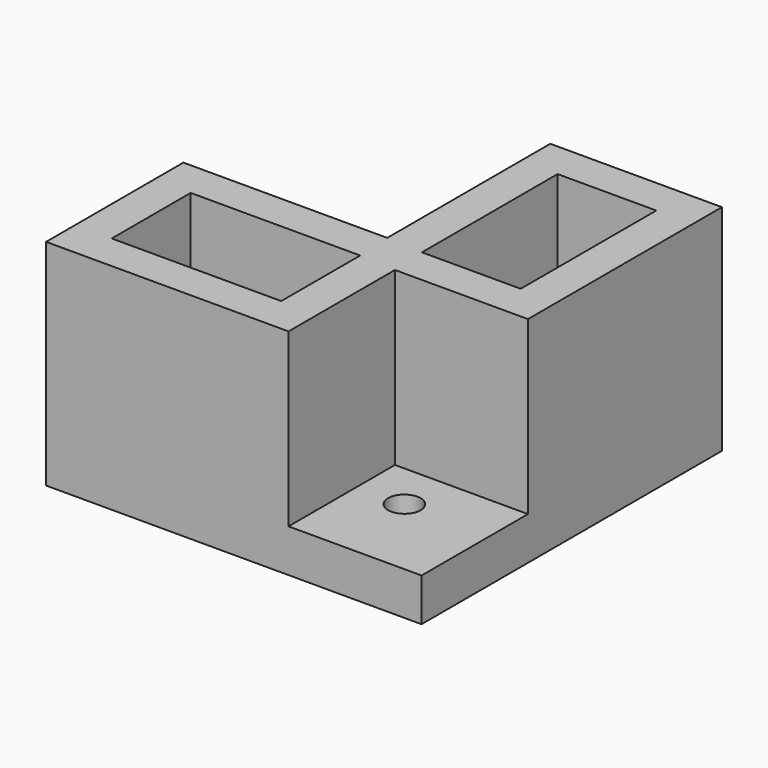
from build123d import *

# Parameters (mm, degrees)
PAD_DEPTH            = 25
SKETCH001_R          = 1.9
POCKET_DEPTH         = 25
SKETCH002_W          = 20
SKETCH002_H          = 20
POCKET001_DEPTH      = 20
SKETCH003_W          = 19.75
SKETCH003_H          = 11.5
SKETCH003_W_2        = 11.5
SKETCH003_H_2        = 19.75
POCKET002_DEPTH      = 20
BODY_PLACEMENT_ANGLE = 90


with BuildPart() as part:
    # Sketch → Pad (new body)
    with BuildSketch(Plane.XY):
        Polygon((0, 23.75), (23.75, 23.75), (23.75, 0), (43.75, 0), (43.75, 43.75), (0, 43.75), align=None)
    extrude(amount=PAD_DEPTH)

    # Sketch001 (on Face8 of Pad) → Pocket (cut)
    with BuildSketch(Plane.XY.offset(25)):
        with Locations((33.75, 33.75)):
            Circle(SKETCH001_R)
    extrude(amount=-POCKET_DEPTH, mode=Mode.SUBTRACT)

    # Sketch002 (on Face5 of Pocket) → Pocket001 (cut)
    with BuildSketch(Plane.XY.offset(25)):
        with Locations((38.25, 38.25)):
            Rectangle(SKETCH002_W, SKETCH002_H)
    extrude(amount=-POCKET001_DEPTH, mode=Mode.SUBTRACT)

    # Sketch003 (on Face5 of Pocket001) → Pocket002 (cut)
    with BuildSketch(Plane.XY.offset(25)):
        with Locations((14.125, 33.75)):
            Rectangle(SKETCH003_W, SKETCH003_H)
        with Locations((33.75, 14.125)):
            Rectangle(SKETCH003_W_2, SKETCH003_H_2)
    extrude(amount=-POCKET002_DEPTH, mode=Mode.SUBTRACT)


with BuildPart() as part_1:
    # Body placement: moved
    add(part.part.rotate(Axis((0, 0, 0), (0, 0, -1)), BODY_PLACEMENT_ANGLE))


solid = part_1.part
